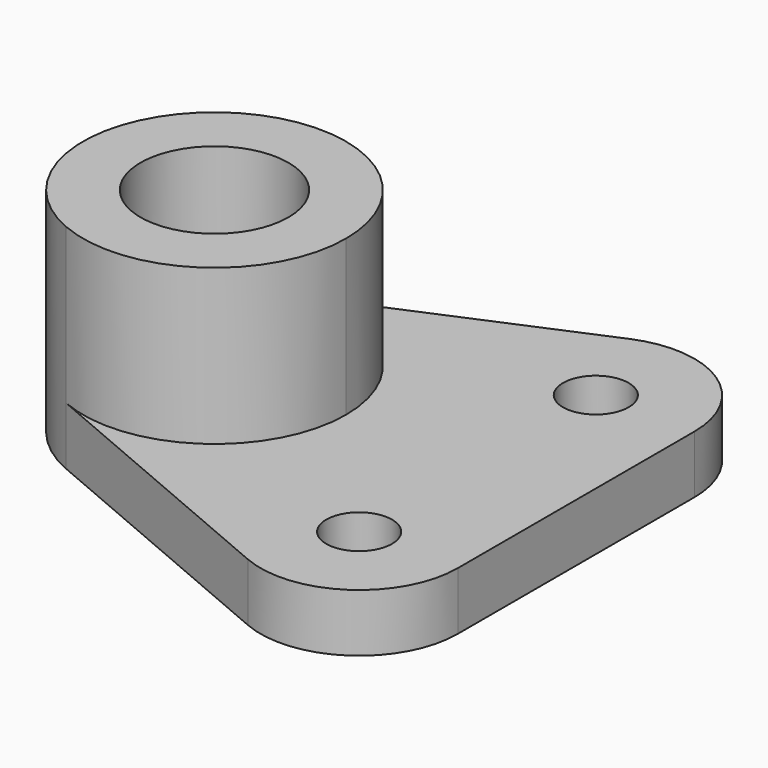
from build123d import *

# Parameters (mm, degrees)
F0_R     = 6.35
F0_R_2   = 14.2875
F1_DEPTH = 11.176
F2_DEPTH = 29.972


with BuildPart() as f1:
    # F0 (on Top) → F1 (new body)
    with BuildSketch(Plane.XY):
        with BuildLine():
            ThreePointArc((-60.766643, 23.36292), (-36.79987, 21.193309), (-25.4, 0))
            ThreePointArc((-25.4, 0), (-36.79987, -21.193309), (-60.766643, -23.36292))
            Line((-60.766643, -23.36292), (-7.474982, -46.09719))
            ThreePointArc((-7.474982, -46.09719), (-10.500097, -12.680018), (19.05, -28.575))
            Line((19.05, -28.575), (19.05, 28.575))
            ThreePointArc((19.05, 28.575), (-10.500097, 12.680018), (-7.474982, 46.09719))
            Line((-7.474982, 46.09719), (-60.766643, 23.36292))
        make_face()
        with BuildLine():
            ThreePointArc((19.05, 28.575), (10.500097, 44.469982), (-7.474982, 46.09719))
            ThreePointArc((-7.474982, 46.09719), (-10.500097, 12.680018), (19.05, 28.575))
        make_face()
        with Locations((0, 28.575)):
            Circle(F0_R, mode=Mode.SUBTRACT)
        with BuildLine():
            ThreePointArc((19.05, -28.575), (-10.500097, -12.680018), (-7.474982, -46.09719))
            ThreePointArc((-7.474982, -46.09719), (10.500097, -44.469982), (19.05, -28.575))
        make_face()
        with Locations((0, -28.575)):
            Circle(F0_R, mode=Mode.SUBTRACT)
        with BuildLine():
            ThreePointArc((-60.766643, -23.36292), (-36.79987, -21.193309), (-25.4, 0))
            ThreePointArc((-25.4, 0), (-36.79987, 21.193309), (-60.766643, 23.36292))
            ThreePointArc((-60.766643, 23.36292), (-76.2, 0), (-60.766643, -23.36292))
        make_face()
        with Locations((-50.8, 0)):
            Circle(F0_R_2, mode=Mode.SUBTRACT)
        with Locations((-50.8, 0)):
            Circle(F0_R_2)
    extrude(amount=-F1_DEPTH)

    # F0 (on Top) → F2 (join)
    with BuildSketch(Plane.XY):
        with BuildLine():
            ThreePointArc((-60.766643, -23.36292), (-36.79987, -21.193309), (-25.4, 0))
            ThreePointArc((-25.4, 0), (-36.79987, 21.193309), (-60.766643, 23.36292))
            ThreePointArc((-60.766643, 23.36292), (-76.2, 0), (-60.766643, -23.36292))
        make_face()
        with Locations((-50.8, 0)):
            Circle(F0_R_2, mode=Mode.SUBTRACT)
    extrude(amount=F2_DEPTH)


solid = f1.part
